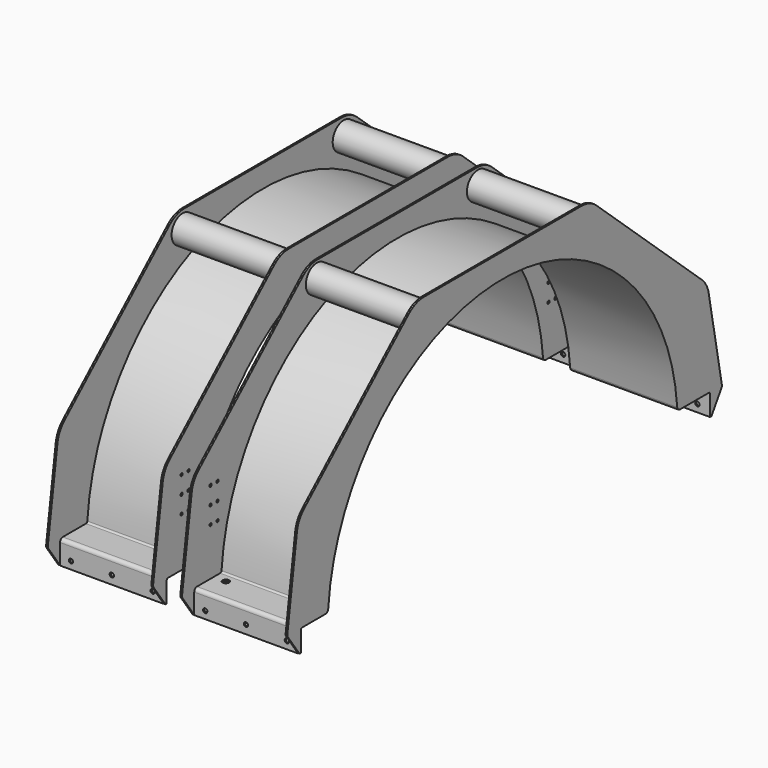
from build123d import *

# Parameters (mm, degrees)
F1_DEPTH  = 3.175
F3_DEPTH  = 190.269
F5_DEPTH  = 3.175
F6_R      = 25.4
F6_R_2    = 22.5
F7_DEPTH  = 190.269
F8_D      = 5.1
F8_DEPTH  = 17.75
F8_TIP    = 1.5321945785
F13_D     = 7.938
F15_R     = 6
F16_DEPTH = 25
F17_R     = 6
F18_DEPTH = 25


with BuildPart() as f1:
    # F0 (on Right) → F1 (new body)
    with BuildSketch(Plane.YZ):
        with BuildLine():
            ThreePointArc((-407.1138170094, 25.4), (-402.8017787522, 27.08858111), (-400.7830401317, 31.2562752541))
            ThreePointArc((-400.7830401317, 31.2562752541), (0, 402), (400.7830401317, 31.2562752541))
            ThreePointArc((400.7830401317, 31.2562752541), (402.8017787522, 27.08858111), (407.1138170094, 25.4))
            Line((407.1138170094, 25.4), (473.0217597078, 25.4))
            ThreePointArc((473.0217597078, 25.4), (475.266823738, 24.4700640303), (476.1967597078, 22.225))
            Line((476.1967597078, 22.225), (476.1967597078, -15.1))
            Line((476.1967597078, -15.1), (479.3717597078, -15.1))
            Line((479.3717597078, -15.1), (502.4591794648, 21.384771857))
            ThreePointArc((502.4591794648, 21.384771857), (503.330024812, 23.5863689039), (503.3338732819, 25.953938621))
            Line((503.3338732819, 25.953938621), (473.115246191, 186.6349509637))
            ThreePointArc((473.115246191, 186.6349509637), (467.5886931002, 201.8475441037), (457.492198166, 214.4977049387))
            Line((457.492198166, 214.4977049387), (216.586606569, 432.1040447897))
            ThreePointArc((216.586606569, 432.1040447897), (201.0265592293, 441.6647738636), (183.0710898604, 445))
            Line((183.0710898604, 445), (-183.0715341707, 445))
            ThreePointArc((-183.0715341707, 445), (-201.0270035396, 441.6647738636), (-216.5870508793, 432.1040447897))
            Line((-216.5870508793, 432.1040447897), (-456.529969943, 215.3672723284))
            ThreePointArc((-456.529969943, 215.3672723284), (-467.1796989347, 201.7031736187), (-472.5274021728, 185.2251157471))
            Line((-472.5274021728, 185.2251157471), (-494.6487642695, 27.8979885152))
            ThreePointArc((-494.6487642695, 27.8979885152), (-494.5309556072, 25.514010236), (-493.5413302009, 23.3419437379))
            Line((-493.5413302009, 23.3419437379), (-466.295183737, -15.1))
            Line((-466.295183737, -15.1), (-463.4997597078, -15.1))
            Line((-463.4997597078, -15.1), (-463.4997597078, 22.225))
            ThreePointArc((-463.4997597078, 22.225), (-462.569823738, 24.4700640303), (-460.3247597078, 25.4))
            Line((-460.3247597078, 25.4), (-407.1138170094, 25.4))
        make_face()
    extrude(amount=F1_DEPTH)

    # F2 (on face) → F3 (join)
    with BuildSketch(Plane.YZ.offset(3.175)):
        with BuildLine():
            ThreePointArc((-407.1138170094, 25.4), (-402.8017787522, 27.08858111), (-400.7830401317, 31.2562752541))
            ThreePointArc((-400.7830401317, 31.2562752541), (0, 402), (400.7830401317, 31.2562752541))
            ThreePointArc((400.7830401317, 31.2562752541), (402.8017787522, 27.08858111), (407.1138170094, 25.4))
            Line((407.1138170094, 25.4), (473.0217597078, 25.4))
            ThreePointArc((473.0217597078, 25.4), (475.266823738, 24.4700640303), (476.1967597078, 22.225))
            Line((476.1967597078, 22.225), (476.1967597078, -15.1))
            Line((476.1967597078, -15.1), (479.3717597078, -15.1))
            Line((479.3717597078, -15.1), (479.3717597078, 22.225))
            ThreePointArc((479.3717597078, 22.225), (477.5118877683, 26.7151280605), (473.0217597078, 28.575))
            Line((473.0217597078, 28.575), (407.1138170094, 28.575))
            ThreePointArc((407.1138170094, 28.575), (404.9577978808, 29.419290555), (403.9484285706, 31.503137627))
            ThreePointArc((403.9484285706, 31.503137627), (0, 405.175), (-403.9484285706, 31.503137627))
            ThreePointArc((-403.9484285706, 31.503137627), (-404.9577978808, 29.419290555), (-407.1138170094, 28.575))
            Line((-407.1138170094, 28.575), (-460.3247597078, 28.575))
            ThreePointArc((-460.3247597078, 28.575), (-464.8148877683, 26.7151280605), (-466.6747597078, 22.225))
            Line((-466.6747597078, 22.225), (-466.6747597078, -15.1))
            Line((-466.6747597078, -15.1), (-463.4997597078, -15.1))
            Line((-463.4997597078, -15.1), (-463.4997597078, 22.225))
            ThreePointArc((-463.4997597078, 22.225), (-462.569823738, 24.4700640303), (-460.3247597078, 25.4))
            Line((-460.3247597078, 25.4), (-407.1138170094, 25.4))
        make_face()
    extrude(amount=F3_DEPTH)

    # F4 (on face) → F5 (join)
    with BuildSketch(Plane.YZ.offset(193.444)):
        with BuildLine():
            ThreePointArc((-407.1138170094, 25.4), (-402.8017787522, 27.08858111), (-400.7830401317, 31.2562752541))
            ThreePointArc((-400.7830401317, 31.2562752541), (0, 402), (400.7830401317, 31.2562752541))
            ThreePointArc((400.7830401317, 31.2562752541), (402.8017787522, 27.08858111), (407.1138170094, 25.4))
            Line((407.1138170094, 25.4), (473.0217597078, 25.4))
            ThreePointArc((473.0217597078, 25.4), (475.266823738, 24.4700640303), (476.1967597078, 22.225))
            Line((476.1967597078, 22.225), (476.1967597078, -15.1))
            Line((476.1967597078, -15.1), (479.3717597078, -15.1))
            Line((479.3717597078, -15.1), (502.4591794648, 21.384771857))
            ThreePointArc((502.4591794648, 21.384771857), (503.330024812, 23.5863689039), (503.3338732819, 25.953938621))
            Line((503.3338732819, 25.953938621), (473.16509013, 186.3699166006))
            ThreePointArc((473.16509013, 186.3699166006), (467.5501121898, 201.8259112308), (457.2920733366, 214.6784746391))
            Line((457.2920733366, 214.6784746391), (215.1879519826, 433.3674281062))
            ThreePointArc((215.1879519826, 433.3674281062), (199.3789438855, 443.0811288453), (181.1361870067, 446.4697185998))
            Line((181.1361870067, 446.4697185998), (-181.136631317, 446.4697185998))
            ThreePointArc((-181.136631317, 446.4697185998), (-199.3793881958, 443.0811288453), (-215.1883962929, 433.3674281062))
            Line((-215.1883962929, 433.3674281062), (-456.3144494621, 215.5619486856))
            ThreePointArc((-456.3144494621, 215.5619486856), (-467.1345741176, 201.6792243966), (-472.5678406076, 184.937517599))
            Line((-472.5678406076, 184.937517599), (-494.6487642695, 27.8979885152))
            ThreePointArc((-494.6487642695, 27.8979885152), (-494.5309556072, 25.514010236), (-493.5413302009, 23.3419437379))
            Line((-493.5413302009, 23.3419437379), (-466.6747597078, -14.5644513076))
            Line((-466.6747597078, -14.5644513076), (-463.4997597078, -14.5644513076))
            Line((-463.4997597078, -14.5644513076), (-463.4997597078, 22.225))
            ThreePointArc((-463.4997597078, 22.225), (-462.569823738, 24.4700640303), (-460.3247597078, 25.4))
            Line((-460.3247597078, 25.4), (-407.1138170094, 25.4))
        make_face()
    extrude(amount=F5_DEPTH)

    # F6 (on face) → F7 (join)
    with BuildSketch(Plane.YZ.offset(3.175)):
        with Locations((185, 415)):
            Circle(F6_R)
        with Locations((185, 415)):
            Circle(F6_R_2, mode=Mode.SUBTRACT)
        with Locations((-185, 415)):
            Circle(F6_R)
        with Locations((-185, 415)):
            Circle(F6_R_2, mode=Mode.SUBTRACT)
    extrude(amount=F7_DEPTH)

    # F8
    with Locations(Plane(origin=(0, 0, 0), x_dir=(0, 1, 0), z_dir=(-1, 0, 0))):
        with Locations((429.1967597078, -179.66), (413.1967597078, -179.66), (413.1967597078, -147.86), (429.1967597078, -147.86), (429.1967597078, -116.06), (413.1967597078, -116.06), (-413.1967597078, -179.66), (-429.1967597078, -179.66), (-429.1967597078, -147.86), (-413.1967597078, -147.86), (-413.1967597078, -116.06), (-429.1967597078, -116.06)):
            Hole(F8_D / 2, depth=F8_DEPTH)
            with Locations((0, 0, -(F8_DEPTH + F8_TIP / 2))):  # 118° drill point
                Cone(0, F8_D / 2, F8_TIP, mode=Mode.SUBTRACT)


with BuildPart() as f10_1:
    # F10: instance of F1
    add(f1.part.mirror(Plane.YZ.offset(-25)))


with BuildPart() as f1_1:
    add(f1.part)

    # F13 (through all)
    with Locations(Plane.XZ.offset(466.6747597078)):
        with Locations((23.3095, -1.38591), (173.3095, -1.38591), (98.3095, 0.54809)):
            Hole(F13_D / 2)


with BuildPart() as f14_1:
    # F14: instance of F1
    add(f1_1.part.mirror(Plane.YZ.offset(-25)))


with BuildPart() as f1_2:
    add(f1_1.part)

    # F15 (on face) → F16 (cut)
    with BuildSketch(Plane.XY.offset(28.575)):
        with Locations((25.53, -421.9977597078)):
            Circle(F15_R)
    extrude(amount=-F16_DEPTH, mode=Mode.SUBTRACT)

    # F17 (on face) → F18 (cut)
    with BuildSketch(Plane.XY.offset(28.575)):
        with Locations((25.53, 420.6517597078)):
            Circle(F17_R)
    extrude(amount=-F18_DEPTH, mode=Mode.SUBTRACT)


with BuildPart() as f20_1:
    # F20: instance of F1
    add(f1_2.part.mirror(Plane.YZ.offset(-25)))


solid = Compound([f1_2.part, f20_1.part])
